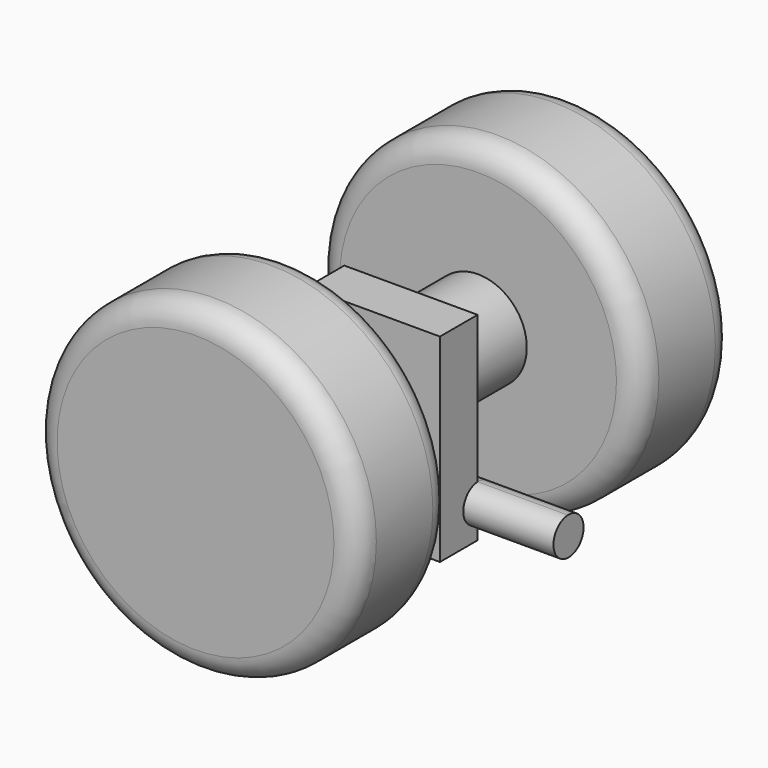
from build123d import *

# Parameters (mm, degrees)
F0_R     = 34.3985683882
F1_DEPTH = 25
F2_R     = 10.3607031397
F3_DEPTH = 25
F4_R     = 5
F5_W     = 28.320367448
F5_H     = 42.1568769962
F5_R     = 10.3607031397
F6_DEPTH = 5
F7_R     = 3.9991799227
F8_DEPTH = 19.15347


with BuildPart() as f1:
    # F0 (on Front) → F1 (new body)
    with BuildSketch(Plane.XZ):
        Circle(F0_R)
    extrude(amount=F1_DEPTH)

    # F2 (on face) → F3 (join)
    with BuildSketch(Plane(origin=(0, 0, 0), x_dir=(-1, 0, 0), z_dir=(0, 1, 0))):
        Circle(F2_R)
    extrude(amount=F3_DEPTH)

    # F4
    f4_edges = [f1.edges().sort_by_distance(p)[0] for p in [
        (-34.398568, 0, 0),
        (-34.398568, -25, 0),
    ]]
    fillet(f4_edges, radius=F4_R)

    # F9: F1 across face


with BuildPart() as f6:
    # F5 (on face) → F6 (new body, symmetric)
    with BuildSketch(Plane(origin=(0, 25, 0), x_dir=(-1, 0, 0), z_dir=(0, 1, 0))):
        with Locations((-1.7463103868, -5.0062173977)):
            Rectangle(F5_W, F5_H)
        Circle(F5_R, mode=Mode.SUBTRACT)
    extrude(amount=F6_DEPTH, both=True)


with BuildPart() as f8:
    # F7 (on face) → F8 (new body, symmetric)
    with BuildSketch(Plane.YZ.offset(15.9064941108)):
        with Locations((30.1907304674, -19.1465523094)):
            Circle(F7_R)
        with BuildLine():
            Line((30, -23.1411814465), (30, -15.1519231723))
            ThreePointArc((30, -15.1519231723), (26.1915505447, -19.1465523094), (30, -23.1411814465))
        make_face()
        with BuildLine():
            ThreePointArc((30, -23.1411814465), (32.9503205274, -22.0410475599), (34.1899103902, -19.1465523094))
            ThreePointArc((34.1899103902, -19.1465523094), (32.9503205274, -16.2520570589), (30, -15.1519231723))
            Line((30, -15.1519231723), (30, -23.1411814465))
        make_face()
    extrude(amount=F8_DEPTH, both=True)


with BuildPart() as f1_1:
    add(f1.part)
    add(f1.part.mirror(Plane(origin=(0, 25, 0), x_dir=(-1, 0, 0), z_dir=(0, 1, 0))))


solid = Compound([f6.part, f8.part, f1_1.part])
